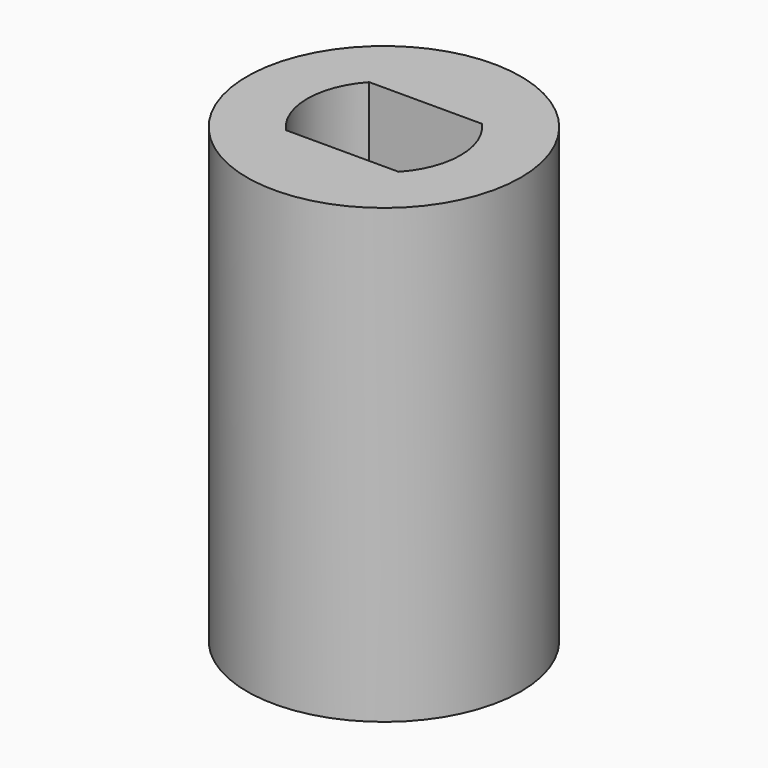
from build123d import *

# Parameters (mm, degrees)
F0_R          = 5
F1_DEPTH      = 9.525
F1_DEPTH_BACK = 7
F4_DEPTH      = 9.526
F3_R          = 2.5
F5_DEPTH      = 7.001
F6_DEPTH      = 1.27


with BuildPart() as f1:
    # F0 (on Top) → F1 (new body, two sides)
    with BuildSketch(Plane.XY) as f1_sk:
        Circle(F0_R)
    extrude(amount=F1_DEPTH)
    extrude(f1_sk.sketch, amount=-F1_DEPTH_BACK)

    # F2 (on Top) → F4 (cut, through all)
    with BuildSketch(Plane.XY):
        with BuildLine():
            ThreePointArc((2.056696, -1.9), (2.607561, -1.02011), (2.8, 0))
            ThreePointArc((2.8, 0), (2.607561, 1.02011), (2.056696, 1.9))
            Line((2.056696, 1.9), (-2.056696, 1.9))
            ThreePointArc((-2.056696, 1.9), (-2.8, 0), (-2.056696, -1.9))
            Line((-2.056696, -1.9), (2.056696, -1.9))
        make_face()
    extrude(amount=F4_DEPTH, mode=Mode.SUBTRACT)

    # F3 (on Top) → F5 (cut, through all)
    with BuildSketch(Plane.XY):
        Circle(F3_R)
    extrude(amount=-F5_DEPTH, mode=Mode.SUBTRACT)

    # F0 (on Top) → F6 (join)
    with BuildSketch(Plane.XY):
        Circle(F0_R)
    extrude(amount=F6_DEPTH)


solid = f1.part
